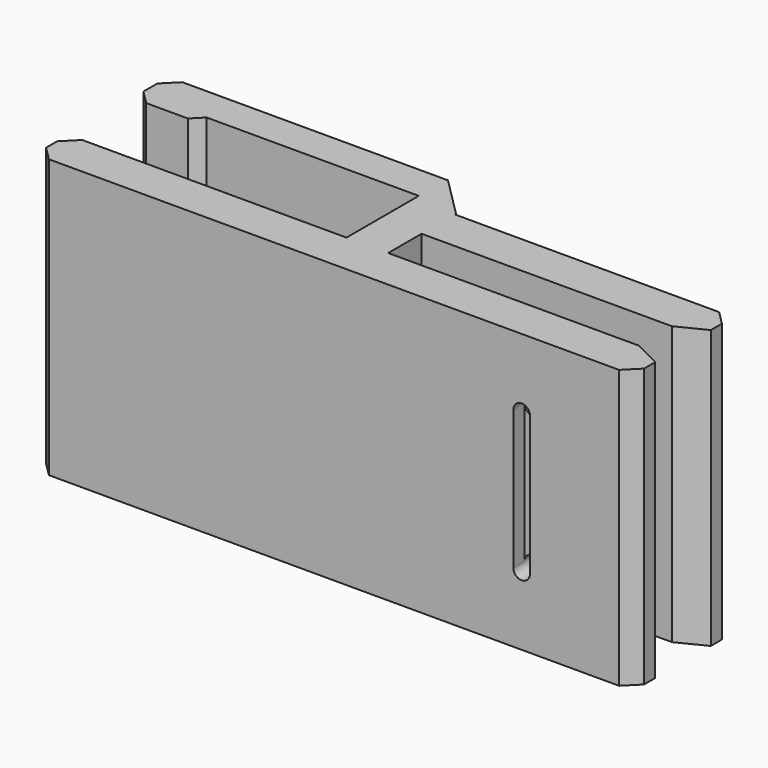
from build123d import *

# Parameters (mm, degrees)
BOX051028_W               = 1.2
BOX051028_H               = 1
BOX051028_DEPTH           = 10
CYLINDER036_R             = 0.6
CYLINDER036_DEPTH         = 10
BOX051029_W               = 1.2
BOX051029_H               = 1
BOX051029_DEPTH           = 10
CYLINDER035_R             = 0.6
CYLINDER035_DEPTH         = 10
BOX051024_W               = 20
BOX051024_H               = 2.5
BOX051024_DEPTH           = 20
CHAMFER034005002019_SIZE  = 1
CHAMFER034005002022_SIZE  = 1
BOX051027_W               = 5
BOX051027_H               = 3.25
BOX051027_DEPTH           = 20
CHAMFER034005002018_SIZE  = 1
CHAMFER034005002021_SIZE  = 1
CHAMFER034005002023_SIZE  = 1
BOX051023_W               = 43
BOX051023_H               = 3
BOX051023_DEPTH           = 20
CHAMFER034005002020_SIZE  = 1
CHAMFER034005002024_SIZE  = 1
CHAMFER034005002027_SIZE2 = 2
CHAMFER034005002027_SIZE  = 1
BOX051025_W               = 20
BOX051025_H               = 3
BOX051025_DEPTH           = 20
CHAMFER034005002025_SIZE  = 1
CHAMFER034005002026_SIZE2 = 2
CHAMFER034005002026_SIZE  = 1
BOX051026_W               = 3
BOX051026_H               = 9
BOX051026_DEPTH           = 20
CHAMFER034005002017_SIZE  = 2.9


with BuildPart() as cube085:
    # Box051028 → Box051028 (new body)
    with BuildSketch(Plane(origin=(34.4, 0, 5), x_dir=(1, 0, 0), z_dir=(0, 0, 1))):
        with Locations((0.6, 0.5)):
            Rectangle(BOX051028_W, BOX051028_H)
    extrude(amount=BOX051028_DEPTH)


with BuildPart() as cylinder036:
    # Cylinder036 → Cylinder036 (new body)
    with BuildSketch(Plane(origin=(35, 0, 15), x_dir=(1, 0, 0), z_dir=(0, 1, 0))):
        Circle(CYLINDER036_R)
    extrude(amount=CYLINDER036_DEPTH)


with BuildPart() as cube086:
    # Box051029 → Box051029 (new body)
    with BuildSketch(Plane(origin=(34.4, 8, 5), x_dir=(1, 0, 0), z_dir=(0, 0, 1))):
        with Locations((0.6, 0.5)):
            Rectangle(BOX051029_W, BOX051029_H)
    extrude(amount=BOX051029_DEPTH)


with BuildPart() as fusion021005009010:
    # Cylinder035 → Cylinder035 (new body)
    with BuildSketch(Plane(origin=(35, 0, 5), x_dir=(1, 0, 0), z_dir=(0, 1, 0))):
        Circle(CYLINDER035_R)
    extrude(amount=CYLINDER035_DEPTH)

    # Fusion021005009010: union Cube085, Cylinder036, Cube086
    add(cube085.part)
    add(cylinder036.part)
    add(cube086.part)


with BuildPart() as chamfer034005002022:
    # Box051024 → Box051024 (new body)
    with BuildSketch(Plane(origin=(0, 9.5, 0), x_dir=(1, 0, 0), z_dir=(0, 0, 1))):
        with Locations((10, 1.25)):
            Rectangle(BOX051024_W, BOX051024_H)
    extrude(amount=BOX051024_DEPTH)

    # Chamfer034005002019
    chamfer034005002019_edges = [chamfer034005002022.edges().sort_by_distance(p)[0] for p in [
        (0, 9.5, 10),
    ]]
    chamfer(chamfer034005002019_edges, length=CHAMFER034005002019_SIZE)

    # Chamfer034005002022
    chamfer034005002022_edges = [chamfer034005002022.edges().sort_by_distance(p)[0] for p in [
        (0, 12, 10),
    ]]
    chamfer(chamfer034005002022_edges, length=CHAMFER034005002022_SIZE)


with BuildPart() as chamfer034005002023:
    # Box051027 → Box051027 (new body)
    with BuildSketch(Plane(origin=(0, 8.75, 0), x_dir=(1, 0, 0), z_dir=(0, 0, 1))):
        with Locations((2.5, 1.625)):
            Rectangle(BOX051027_W, BOX051027_H)
    extrude(amount=BOX051027_DEPTH)

    # Chamfer034005002018
    chamfer034005002018_edges = [chamfer034005002023.edges().sort_by_distance(p)[0] for p in [
        (0, 8.75, 10),
    ]]
    chamfer(chamfer034005002018_edges, length=CHAMFER034005002018_SIZE)

    # Chamfer034005002021
    chamfer034005002021_edges = [chamfer034005002023.edges().sort_by_distance(p)[0] for p in [
        (0, 12, 10),
    ]]
    chamfer(chamfer034005002021_edges, length=CHAMFER034005002021_SIZE)

    # Chamfer034005002023
    chamfer034005002023_edges = [chamfer034005002023.edges().sort_by_distance(p)[0] for p in [
        (5, 8.75, 10),
    ]]
    chamfer(chamfer034005002023_edges, length=CHAMFER034005002023_SIZE)


with BuildPart() as chamfer034005002027:
    # Box051023 → Box051023 (new body)
    with BuildSketch(Plane.XY):
        with Locations((21.5, 1.5)):
            Rectangle(BOX051023_W, BOX051023_H)
    extrude(amount=BOX051023_DEPTH)

    # Chamfer034005002020
    chamfer034005002020_edges = [chamfer034005002027.edges().sort_by_distance(p)[0] for p in [
        (0, 0, 10),
        (0, 3, 10),
    ]]
    chamfer(chamfer034005002020_edges, length=CHAMFER034005002020_SIZE)

    # Chamfer034005002024
    chamfer034005002024_edges = [chamfer034005002027.edges().sort_by_distance(p)[0] for p in [
        (43, 0, 10),
    ]]
    chamfer(chamfer034005002024_edges, length=CHAMFER034005002024_SIZE)

    # Chamfer034005002027
    chamfer034005002027_edges = [chamfer034005002027.edges().sort_by_distance(p)[0] for p in [
        (43, 3, 10),
    ]]
    chamfer034005002027_side = chamfer034005002027.faces().sort_by_distance((43, 2, 10))[0]
    chamfer(chamfer034005002027_edges, length=CHAMFER034005002027_SIZE, length2=CHAMFER034005002027_SIZE2, reference=chamfer034005002027_side)


with BuildPart() as chamfer034005002026:
    # Box051025 → Box051025 (new body)
    with BuildSketch(Plane(origin=(23, 6, 0), x_dir=(1, 0, 0), z_dir=(0, 0, 1))):
        with Locations((10, 1.5)):
            Rectangle(BOX051025_W, BOX051025_H)
    extrude(amount=BOX051025_DEPTH)

    # Chamfer034005002025
    chamfer034005002025_edges = [chamfer034005002026.edges().sort_by_distance(p)[0] for p in [
        (43, 9, 10),
    ]]
    chamfer(chamfer034005002025_edges, length=CHAMFER034005002025_SIZE)

    # Chamfer034005002026
    chamfer034005002026_edges = [chamfer034005002026.edges().sort_by_distance(p)[0] for p in [
        (43, 6, 10),
    ]]
    chamfer034005002026_side = chamfer034005002026.faces().sort_by_distance((43, 7, 10))[0]
    chamfer(chamfer034005002026_edges, length=CHAMFER034005002026_SIZE, length2=CHAMFER034005002026_SIZE2, reference=chamfer034005002026_side)


with BuildPart() as vertical_clip:
    # Box051026 → Box051026 (new body)
    with BuildSketch(Plane(origin=(20, 3, 0), x_dir=(1, 0, 0), z_dir=(0, 0, 1))):
        with Locations((1.5, 4.5)):
            Rectangle(BOX051026_W, BOX051026_H)
    extrude(amount=BOX051026_DEPTH)

    # Chamfer034005002017
    chamfer034005002017_edges = [vertical_clip.edges().sort_by_distance(p)[0] for p in [
        (23, 12, 10),
    ]]
    chamfer(chamfer034005002017_edges, length=CHAMFER034005002017_SIZE)

    # Fusion021005009009: union Chamfer034005002022, Chamfer034005002023, Chamfer034005002027, Chamfer034005002026
    add(chamfer034005002022.part)
    add(chamfer034005002023.part)
    add(chamfer034005002027.part)
    add(chamfer034005002026.part)

    # Cut018011002007: cut Fusion021005009010
    add(fusion021005009010.part, mode=Mode.SUBTRACT)


solid = vertical_clip.part
